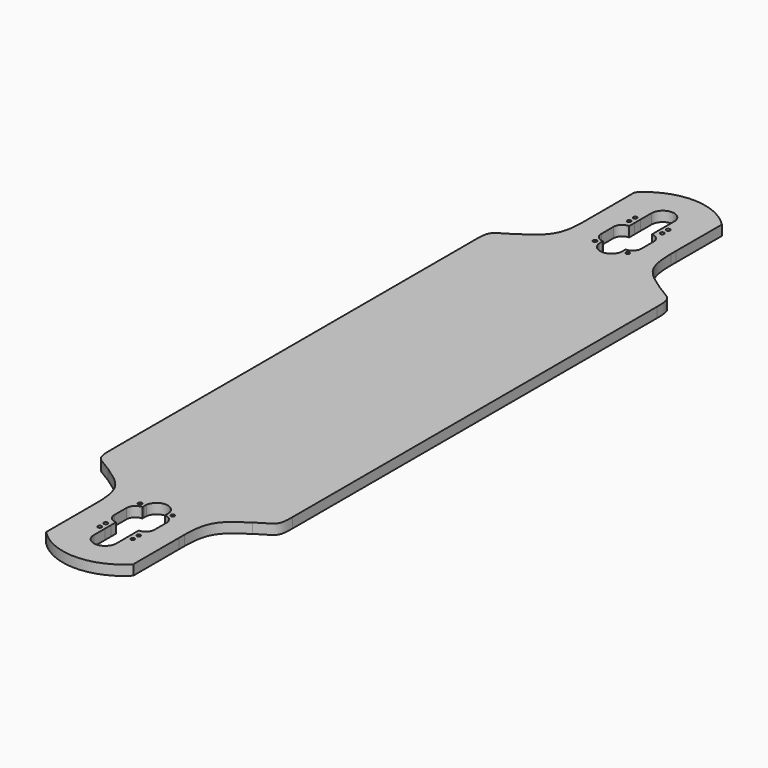
from build123d import *

# Parameters (mm, degrees)
F0_R     = 2.38125
F1_DEPTH = 12.7


with BuildPart() as f1:
    # F0 (on Top) → F1 (new body)
    with BuildSketch(Plane.XY):
        with BuildLine():
            Line((-54.9985197177, -382.026025871), (-54.9992847525, -394.1482991889))
            add(Edge.make_bspline(
                [(-54.9985197177, -382.026025871), (-54.9354455758, -386.0255511518), (-54.9675123774, -390.0869308064), (-54.9992847525, -394.1482991889)],
                knots=[0.8743339951, 0.8743339951, 0.8743339951, 0.8743339951, 1, 1, 1, 1], degree=3))
        make_face()
        with BuildLine():
            add(Edge.make_bspline(
                [(-54.9985197177, -382.026025871), (-54.9354455758, -386.0255511518), (-54.9675123774, -390.0869308064), (-54.9992847525, -394.1482991889)],
                knots=[0.8743339951, 0.8743339951, 0.8743339951, 0.8743339951, 1, 1, 1, 1], degree=3))
            Line((-54.9992847525, -394.1482991889), (-54.9992847525, -464.0970221375))
            ThreePointArc((-54.9992847525, -464.0970221375), (-0.0018759394, -487.4241320019), (55.000743191, -464.1093101158))
            Line((55.000743191, -464.1093101158), (54.9761007121, -391.9680777589))
            add(Edge.make_bspline(
                [(54.9687721704, -390.8628424946), (54.9710268923, -391.2311321553), (54.97349351, -391.5995593372), (54.9761007121, -391.9680777589)],
                knots=[0.966101498, 0.966101498, 0.966101498, 0.966101498, 0.9775096829, 0.9775096829, 0.9775096829, 0.9775096829], degree=3))
            add(Edge.make_bspline(
                [(54.9687721704, -383.9808695319), (54.9488585997, -386.2619365341), (54.9546720058, -388.559700445), (54.9687721704, -390.8628424946)],
                knots=[0.8947590922, 0.8947590922, 0.8947590922, 0.8947590922, 0.966101498, 0.966101498, 0.966101498, 0.966101498], degree=3))
            add(Edge.make_bspline(
                [(54.9732129835, -383.5142081144), (54.971609259, -383.6696817984), (54.9701308343, -383.8252368026), (54.9687721704, -383.9808695319)],
                knots=[0.8898915397, 0.8898915397, 0.8898915397, 0.8898915397, 0.8947590922, 0.8947590922, 0.8947590922, 0.8947590922], degree=3))
            add(Edge.make_bspline(
                [(91.0522177535, -321.0871368647), (79.1806262303, -328.9177700097), (57.3146361539, -343.3408190429), (55.1072249943, -370.5223627567), (54.9732129835, -383.5142081144)],
                knots=[0, 0, 0, 0, 0.4831443178, 0.8898915397, 0.8898915397, 0.8898915397, 0.8898915397], degree=3))
            add(Edge.make_bspline(
                [(114.6235545891, -287.2718525976), (114.7522390143, -293.5334884003), (114.407941027, -310.3003483875), (103.1780495584, -312.9231176806), (91.0522177535, -321.0871368647)],
                knots=[0, 0, 0, 0, 0.4602994573, 1, 1, 1, 1], degree=3))
            Line((114.6235545891, -287.2718525976), (114.6235545891, 287.2718525976))
            add(Edge.make_bspline(
                [(114.6235545891, 287.2718525976), (114.7522390143, 293.5334884003), (114.407941027, 310.3003483875), (103.1780495584, 312.9231176806), (91.0522177535, 321.0871368647)],
                knots=[0, 0, 0, 0, 0.4602994573, 1, 1, 1, 1], degree=3))
            add(Edge.make_bspline(
                [(91.0522177535, 321.0871368647), (79.1806262303, 328.9177700097), (57.3146361539, 343.3408190429), (55.1072249943, 370.5223627567), (54.9732129835, 383.5142081144)],
                knots=[0, 0, 0, 0, 0.4831443178, 0.8898915397, 0.8898915397, 0.8898915397, 0.8898915397], degree=3))
            add(Edge.make_bspline(
                [(54.9732129835, 383.5142081144), (54.9443452176, 386.3128046538), (54.9560766494, 389.1377502314), (54.9761007121, 391.9680777589)],
                knots=[0.8898915397, 0.8898915397, 0.8898915397, 0.8898915397, 0.9775096829, 0.9775096829, 0.9775096829, 0.9775096829], degree=3))
            Line((54.9761007121, 391.9680777589), (55.0007455459, 464.116204095))
            ThreePointArc((55.0007455459, 464.116204095), (0, 487.4241321885), (-54.9926131403, 464.0970230103))
            Line((-54.9926131403, 464.0970230103), (-54.9926131403, 394.1483000617))
            add(Edge.make_bspline(
                [(-91.0522177535, 321.0871368647), (-79.1806262303, 328.9177700097), (-54.6091036329, 345.1254182344), (-54.8619355351, 377.444169717), (-54.9926131403, 394.1483000617)],
                knots=[0, 0, 0, 0, 0.4831443178, 1, 1, 1, 1], degree=3))
            add(Edge.make_bspline(
                [(-114.6235545891, 287.2718525976), (-114.7522390143, 293.5334884003), (-114.407941027, 310.3003483875), (-103.1780495584, 312.9231176806), (-91.0522177535, 321.0871368647)],
                knots=[0, 0, 0, 0, 0.4602994573, 1, 1, 1, 1], degree=3))
            Line((-114.6235545891, 287.2718525976), (-114.6235545891, -287.2718525976))
            add(Edge.make_bspline(
                [(-114.6235545891, -287.2718525976), (-114.7522390143, -293.5334884003), (-114.407941027, -310.3003483875), (-103.1780495584, -312.9231176806), (-91.0522177535, -321.0871368647)],
                knots=[0, 0, 0, 0, 0.4602994573, 1, 1, 1, 1], degree=3))
            add(Edge.make_bspline(
                [(-91.0522177535, -321.0871368647), (-79.1805664511, -328.9178094407), (-57.6943096428, -343.0884182066), (-55.1948639857, -369.5758546835), (-54.9985197177, -382.026025871)],
                knots=[0, 0, 0, 0, 0.4831467507, 0.8743339951, 0.8743339951, 0.8743339951, 0.8743339951], degree=3))
        make_face()
        with Locations((-20.8386558141, -422.188183992)):
            Circle(F0_R, mode=Mode.SUBTRACT)
        with Locations((-20.8386558141, -412.663183992)):
            Circle(F0_R, mode=Mode.SUBTRACT)
        with BuildLine():
            ThreePointArc((14.2740352273, -439.6507348414), (-0.0134647727, -453.9382348414), (-14.3009647727, -439.6507348414))
            Line((-14.3009647727, -439.6507348414), (-14.3009109322, -439.6115112433))
            Line((-14.3009109322, -439.6115112433), (-14.2769947735, -422.1882512927))
            Line((-14.2769947735, -422.1882512927), (-14.2639325118, -412.6722088316))
            Line((-14.2639325118, -412.6722088316), (-14.2527355698, -404.5150782267))
            ThreePointArc((-14.2527355698, -404.5150782267), (-22.1059867444, -401.2495172858), (-25.3499714565, -393.3873289481))
            Line((-25.3499714565, -393.3873289481), (-25.3238328191, -374.3525886957))
            ThreePointArc((-25.3238328191, -374.3525886957), (-22.0636620984, -366.4894734645), (-14.1960791833, -363.2400991647))
            Line((-14.1960791833, -363.2400991647), (-14.1922458286, -360.447446034))
            ThreePointArc((-14.1922458286, -360.447446034), (-14.3009513126, -358.6686230238), (-14.1873628199, -356.890105147))
            ThreePointArc((-14.1873628199, -356.890105147), (-0.0134647727, -344.4007348414), (14.1604332745, -356.890105147))
            ThreePointArc((14.1604332745, -356.890105147), (14.2456064558, -357.7873774996), (14.2740352273, -358.6882348414))
            ThreePointArc((14.2740352273, -358.6882348414), (14.2468295894, -359.5695185399), (14.1653162831, -360.447446034))
            Line((14.1653162831, -360.447446034), (14.1691496379, -363.2400991647))
            ThreePointArc((14.1691496379, -363.2400991647), (22.036732553, -366.4894734645), (25.2969032737, -374.3525886957))
            Line((25.2969032737, -374.3525886957), (25.3230419111, -393.3873289481))
            ThreePointArc((25.3230419111, -393.3873289481), (22.079057199, -401.2495172858), (14.2258060244, -404.5150782267))
            Line((14.2258060244, -404.5150782267), (14.2739813868, -439.6115112432))
            Line((14.2739813868, -439.6115112432), (14.2740352273, -439.6507348414))
        make_face(mode=Mode.SUBTRACT)
        with Locations((-20.7645667255, -358.6882348414)):
            Circle(F0_R, mode=Mode.SUBTRACT)
        with Locations((20.8117262687, -422.188183992)):
            Circle(F0_R, mode=Mode.SUBTRACT)
        with Locations((20.8117262687, -412.663183992)):
            Circle(F0_R, mode=Mode.SUBTRACT)
        with Locations((20.5104332745, -358.6882348414)):
            Circle(F0_R, mode=Mode.SUBTRACT)
        with Locations((-20.7645667255, 358.6882348414)):
            Circle(F0_R, mode=Mode.SUBTRACT)
        with Locations((-20.8386558141, 412.663183992)):
            Circle(F0_R, mode=Mode.SUBTRACT)
        with Locations((-20.8386558141, 422.188183992)):
            Circle(F0_R, mode=Mode.SUBTRACT)
        with BuildLine():
            ThreePointArc((14.1653162831, 360.447446034), (14.2468295894, 359.5695185399), (14.2740352273, 358.6882348414))
            ThreePointArc((14.2740352273, 358.6882348414), (14.2456064558, 357.7873774996), (14.1604332745, 356.890105147))
            ThreePointArc((14.1604332745, 356.890105147), (-0.0134647727, 344.4007348414), (-14.1873628199, 356.890105147))
            ThreePointArc((-14.1873628199, 356.890105147), (-14.3009513126, 358.6686230238), (-14.1922458286, 360.447446034))
            Line((-14.1922458286, 360.447446034), (-14.1960791833, 363.2400991647))
            ThreePointArc((-14.1960791833, 363.2400991647), (-22.0636620984, 366.4894734645), (-25.3238328191, 374.3525886957))
            Line((-25.3238328191, 374.3525886957), (-25.3499714565, 393.3873289481))
            ThreePointArc((-25.3499714565, 393.3873289481), (-22.1059867444, 401.2495172858), (-14.2527355698, 404.5150782267))
            Line((-14.2527355698, 404.5150782267), (-14.2639325118, 412.6722088316))
            Line((-14.2639325118, 412.6722088316), (-14.2769947735, 422.1882512927))
            Line((-14.2769947735, 422.1882512927), (-14.3009109322, 439.6115112433))
            Line((-14.3009109322, 439.6115112433), (-14.3009647727, 439.6507348414))
            ThreePointArc((-14.3009647727, 439.6507348414), (-0.0134647727, 453.9382348414), (14.2740352273, 439.6507348414))
            Line((14.2740352273, 439.6507348414), (14.2739813868, 439.6115112432))
            Line((14.2739813868, 439.6115112432), (14.2258060244, 404.5150782267))
            ThreePointArc((14.2258060244, 404.5150782267), (22.079057199, 401.2495172858), (25.3230419111, 393.3873289481))
            Line((25.3230419111, 393.3873289481), (25.2969032737, 374.3525886957))
            ThreePointArc((25.2969032737, 374.3525886957), (22.036732553, 366.4894734645), (14.1691496379, 363.2400991647))
            Line((14.1691496379, 363.2400991647), (14.1653162831, 360.447446034))
        make_face(mode=Mode.SUBTRACT)
        with Locations((20.5104332745, 358.6882348414)):
            Circle(F0_R, mode=Mode.SUBTRACT)
        with Locations((20.8117262687, 412.663183992)):
            Circle(F0_R, mode=Mode.SUBTRACT)
        with Locations((20.8117262687, 422.188183992)):
            Circle(F0_R, mode=Mode.SUBTRACT)
        with BuildLine():
            add(Edge.make_bspline(
                [(54.9687721704, -390.8628424946), (54.9710268923, -391.2311321553), (54.97349351, -391.5995593372), (54.9761007121, -391.9680777589)],
                knots=[0.966101498, 0.966101498, 0.966101498, 0.966101498, 0.9775096829, 0.9775096829, 0.9775096829, 0.9775096829], degree=3))
            Line((54.9761007121, -391.9680777589), (54.9732129835, -383.5142081144))
            add(Edge.make_bspline(
                [(54.9732129835, -383.5142081144), (54.971609259, -383.6696817984), (54.9701308343, -383.8252368026), (54.9687721704, -383.9808695319)],
                knots=[0.8898915397, 0.8898915397, 0.8898915397, 0.8898915397, 0.8947590922, 0.8947590922, 0.8947590922, 0.8947590922], degree=3))
            Line((54.9687721704, -383.9808695319), (54.9687721704, -390.8628424946))
        make_face()
        with BuildLine():
            Line((54.9732129835, 383.5142081144), (54.9761007121, 391.9680777589))
            add(Edge.make_bspline(
                [(54.9732129835, 383.5142081144), (54.9443452176, 386.3128046538), (54.9560766494, 389.1377502314), (54.9761007121, 391.9680777589)],
                knots=[0.8898915397, 0.8898915397, 0.8898915397, 0.8898915397, 0.9775096829, 0.9775096829, 0.9775096829, 0.9775096829], degree=3))
        make_face()
    extrude(amount=F1_DEPTH)


solid = f1.part
